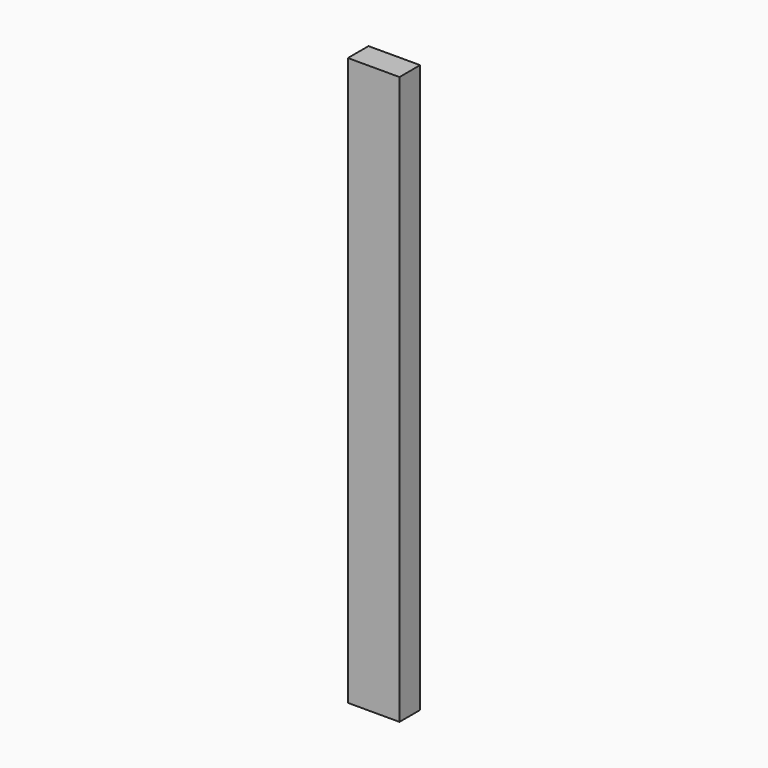
from build123d import *

# Parameters (mm, degrees)
F0_W     = 50.8
F0_H     = 25.4
F1_DEPTH = 762
F2_DEPTH = 25.4
F3_DEPTH = 127
F4_DEPTH = 101.6
F5_DEPTH = 50.8


with BuildPart() as f1:
    # F0 (on Top) → F1 (new body)
    with BuildSketch(Plane.XY):
        with Locations((-124.3431291819, 11.3030608416)):
            Rectangle(F0_W, F0_H)
    extrude(amount=F1_DEPTH)

    # F2 (cut): a face of the model
    f2_faces = [f1.faces().sort_by_distance(p)[0] for p in [
        (-124.3431291819, 11.3030608416, 0),
    ]]
    extrude(f2_faces, amount=-F2_DEPTH, mode=Mode.SUBTRACT)

    # F3 (cut): a face of the model
    f3_faces = [f1.faces().sort_by_distance(p)[0] for p in [
        (-124.3431291819, 11.3030608416, 25.4),
    ]]
    extrude(f3_faces, amount=-F3_DEPTH, mode=Mode.SUBTRACT)

    # F4 (cut): a face of the model
    f4_faces = [f1.faces().sort_by_distance(p)[0] for p in [
        (-124.3431291819, 11.3030608416, 152.4),
    ]]
    extrude(f4_faces, amount=-F4_DEPTH, mode=Mode.SUBTRACT)

    # F5 (add): a face of the model
    f5_faces = [f1.faces().sort_by_distance(p)[0] for p in [
        (-124.3431291819, 11.3030608416, 254),
    ]]
    extrude(f5_faces, amount=F5_DEPTH)


solid = f1.part
